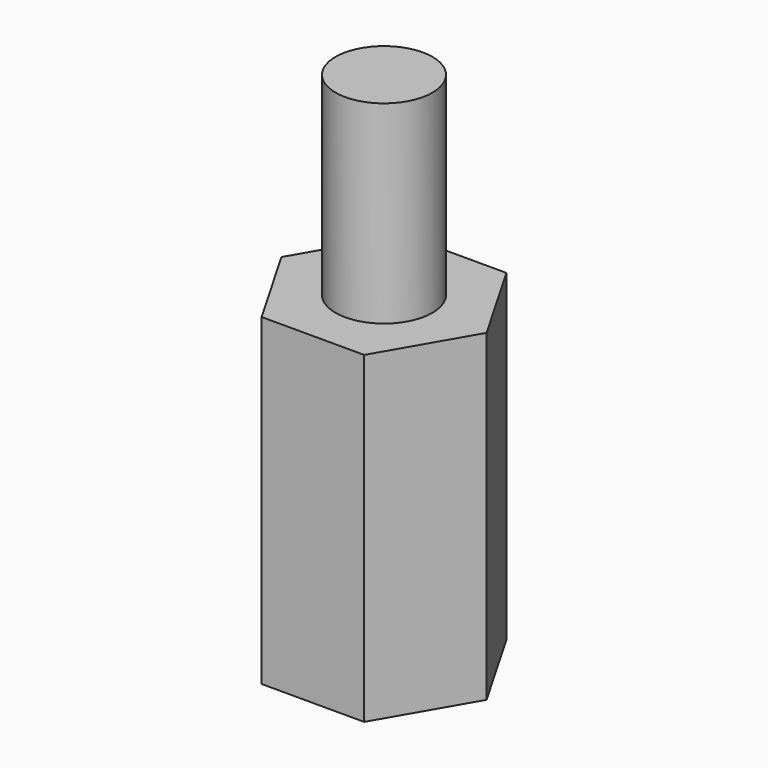
from build123d import *

# Parameters (mm, degrees)
PAD_DEPTH    = 10
SKETCH001_R  = 1.5
PAD001_DEPTH = 6
SKETCH002_R  = 1.5
POCKET_DEPTH = 8


with BuildPart() as part:
    # Sketch → Pad (new body)
    with BuildSketch(Plane.XY):
        Polygon((1.587713, -2.75), (3.175426, 0), (1.587713, 2.75), (-1.587713, 2.75), (-3.175426, 0), (-1.587713, -2.75), align=None)
    extrude(amount=PAD_DEPTH)

    # Sketch001 (on Face8 of Pad) → Pad001 (join)
    with BuildSketch(Plane.XY.offset(10)):
        Circle(SKETCH001_R)
    extrude(amount=PAD001_DEPTH)

    # Sketch002 (on Face4 of Pad001) → Pocket (cut)
    with BuildSketch(Plane(origin=(0, 0, 0), x_dir=(1, 0, 0), z_dir=(0, 0, -1))):
        Circle(SKETCH002_R)
    extrude(amount=-POCKET_DEPTH, mode=Mode.SUBTRACT)


solid = part.part
